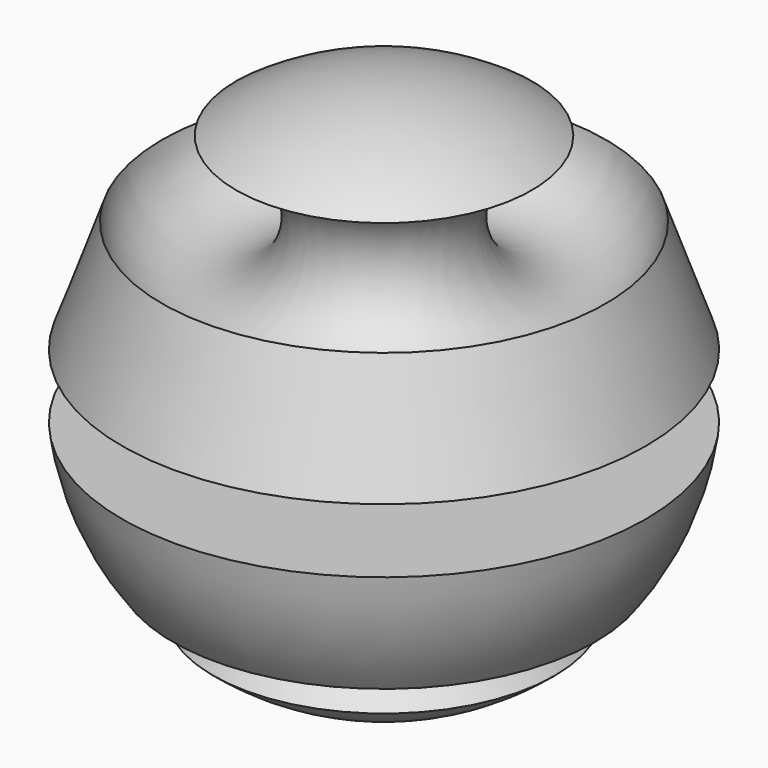
from build123d import *


with BuildPart() as f1:
    # F0 (on Front) → F1 (revolve)
    with BuildSketch(Plane.XZ):
        with BuildLine():
            Line((-20.9981, -5.245422), (-40.496428, -5.245422))
            ThreePointArc((-40.496428, -5.245422), (-37.817677, -15.404494), (-32.635495, -24.54383))
            Line((-32.635495, -24.54383), (-14.119412, -14.481449))
            Line((-14.119412, -14.481449), (-26.42555, -31.131422))
            ThreePointArc((-26.42555, -31.131422), (-14.075367, -38.332221), (0, -40.834729))
            Line((0, -40.834729), (0, 40.834729))
            ThreePointArc((0, 40.834729), (-11.963023, 39.043069), (-22.876268, 33.825308))
            ThreePointArc((-22.876268, 33.825308), (-15.493416, 15.149465), (-34.330269, 22.111258))
            Line((-34.330269, 22.111258), (-40.496428, 4.706471))
            Line((-40.496428, 4.706471), (-20.9981, 4.706471))
            Line((-20.9981, 4.706471), (-20.9981, -5.245422))
        make_face()
    revolve(axis=Axis((0, 0, 0), (0, 0, -1)))


solid = f1.part
